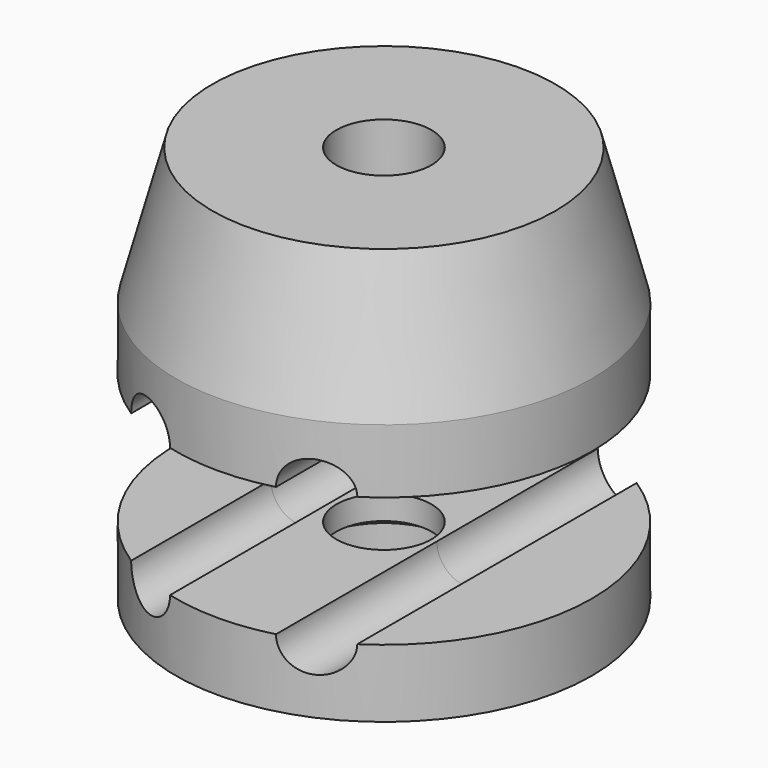
from build123d import *

# Parameters (mm, degrees)
F0_W       = 10.5156
F0_H       = 5.3848
F0_W_2     = 6.985
F0_H_2     = 5.715
F2_D       = 5.0546
F2_DEPTH   = 17.5016
F2_2_D     = 5.0546
F2_2_DEPTH = 17.5016
F3_D       = 5.0546
F3_2_D     = 5.0546
F5_D       = 8.001
F5_2_D     = 8.001
F7_D       = 11.8364
F7_DEPTH   = 2.54
F7_TIP     = 3.5560133155


with BuildPart() as f1:
    # F0 (on Front) → F1 (revolve)
    with BuildSketch(Plane.XZ):
        Polygon((0, 11.43), (0, 0), (6.985, 0), (17.5006, 0), (14.4379407305, 11.43), align=None)
        Polygon((0, 11.43), (0, 0), (6.985, 0), (17.5006, 0), (14.4379407305, 11.43), align=None)
        with Locations((12.2428, -2.6924)):
            Rectangle(F0_W, F0_H)
        with Locations((3.4925, -2.6924)):
            Rectangle(F0_W_2, F0_H)
    revolve(axis=Axis((0, 0, 5.715), (0, 0, -1)))

    # F2 (through all, one way)
    with BuildSketch(Plane(origin=(0, 0, 0), x_dir=(1, 0, 0), z_dir=(0, 1, 0))):
        with Locations((6.985, 5.3848), (-6.985, 5.3848), (6.985, 16.2921505755), (-6.985, 16.2921505755)):
            Circle(F2_D / 2)
    extrude(amount=-F2_DEPTH, mode=Mode.SUBTRACT)

    # F3 (through all)
    with Locations(Plane.XZ):
        with Locations((-6.985, -5.3848), (6.985, -5.3848), (6.985, -16.2921505755), (-6.985, -16.2921505755)):
            Hole(F3_D / 2)

    # F5 (through all)
    with Locations(Plane.XY.offset(11.43)):
        with Locations((0, 0)):
            Hole(F5_D / 2)


with BuildPart() as f1b:
    # F0 (on Front) → F1, piece 2 (revolve)
    with BuildSketch(Plane.XZ):
        with Locations((3.4925, -19.1496505755)):
            Rectangle(F0_W_2, F0_H_2)
        with Locations((12.2428, -19.1496505755)):
            Rectangle(F0_W, F0_H_2)
    revolve(axis=Axis((0, 0, 5.715), (0, 0, -1)))

    # F2#2 (through all, one way)
    with BuildSketch(Plane(origin=(0, 0, 0), x_dir=(1, 0, 0), z_dir=(0, 1, 0))):
        with Locations((6.985, 5.3848), (-6.985, 5.3848), (6.985, 16.2921505755), (-6.985, 16.2921505755)):
            Circle(F2_2_D / 2)
    extrude(amount=-F2_2_DEPTH, mode=Mode.SUBTRACT)

    # F3#2 (through all)
    with Locations(Plane.XZ):
        with Locations((-6.985, -5.3848), (6.985, -5.3848), (6.985, -16.2921505755), (-6.985, -16.2921505755)):
            Hole(F3_2_D / 2)

    # F5#2 (through all)
    with Locations(Plane.XY.offset(11.43)):
        with Locations((0, 0)):
            Hole(F5_2_D / 2)

    # F7
    with Locations(Plane(origin=(0, 0, -22.0071505755), x_dir=(1, 0, 0), z_dir=(0, 0, -1))):
        with Locations((0, 0)):
            Hole(F7_D / 2, depth=F7_DEPTH)
            with Locations((0, 0, -(F7_DEPTH + F7_TIP / 2))):  # 118° drill point
                Cone(0, F7_D / 2, F7_TIP, mode=Mode.SUBTRACT)


solid = Compound([f1.part, f1b.part])
